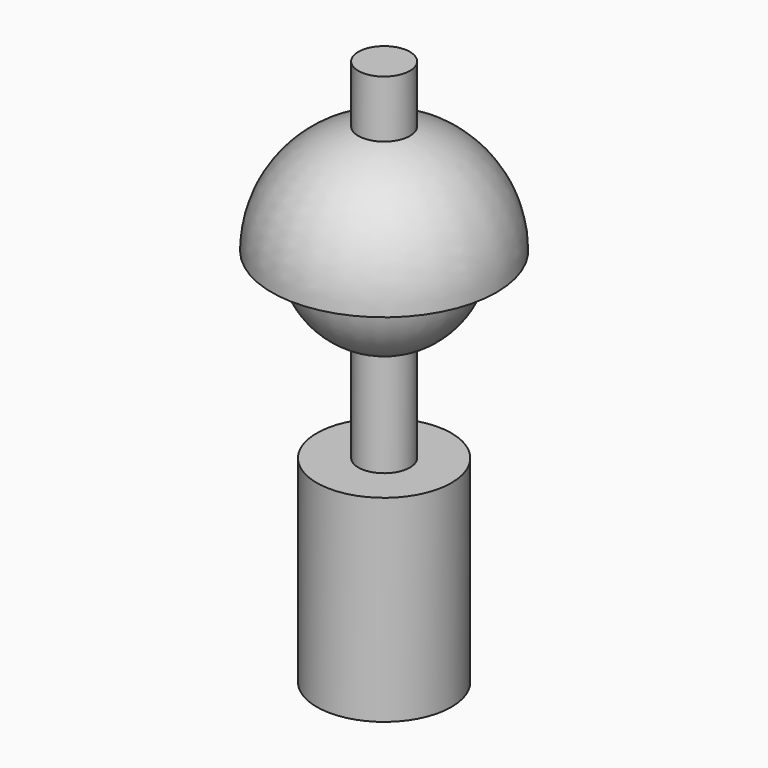
from build123d import *


with BuildPart() as f1:
    # F0 (on Front) → F1 (revolve)
    with BuildSketch(Plane.XZ):
        with BuildLine():
            Line((6.124114, -20.673078), (6.124114, 4.012086))
            ThreePointArc((6.124114, 4.012086), (15.875068, 11.137714), (19.596534, 22.627117))
            ThreePointArc((19.596534, 22.627117), (13.856842, 36.483959), (0, 42.223651))
            Line((0, 42.223651), (0, -67.502365))
            Line((0, -67.502365), (15.986569, -67.502365))
            Line((15.986569, -67.502365), (15.986569, -20.673078))
            Line((15.986569, -20.673078), (6.124114, -20.673078))
        make_face()
    revolve(axis=Axis((0, 0, -12.639357), (0, 0, 1)))


with BuildPart() as f2:
    # F0 (on Front) → F2 (revolve)
    with BuildSketch(Plane.XZ):
        with BuildLine():
            ThreePointArc((0, 42.223651), (13.856842, 36.483959), (19.596534, 22.627117))
            Line((19.596534, 22.627117), (26.708534, 22.627117))
            ThreePointArc((26.708534, 22.627117), (20.93934, 39.206919), (6.124114, 48.62406))
            Line((6.124114, 48.62406), (6.124114, 62.219013))
            Line((6.124114, 62.219013), (0, 62.219013))
            Line((0, 62.219013), (0, 49.335651))
            Line((0, 49.335651), (0, 42.223651))
        make_face()
    revolve(axis=Axis((0, 0, 45.779651), (0, 0, 1)))


solid = Compound([f1.part, f2.part])
